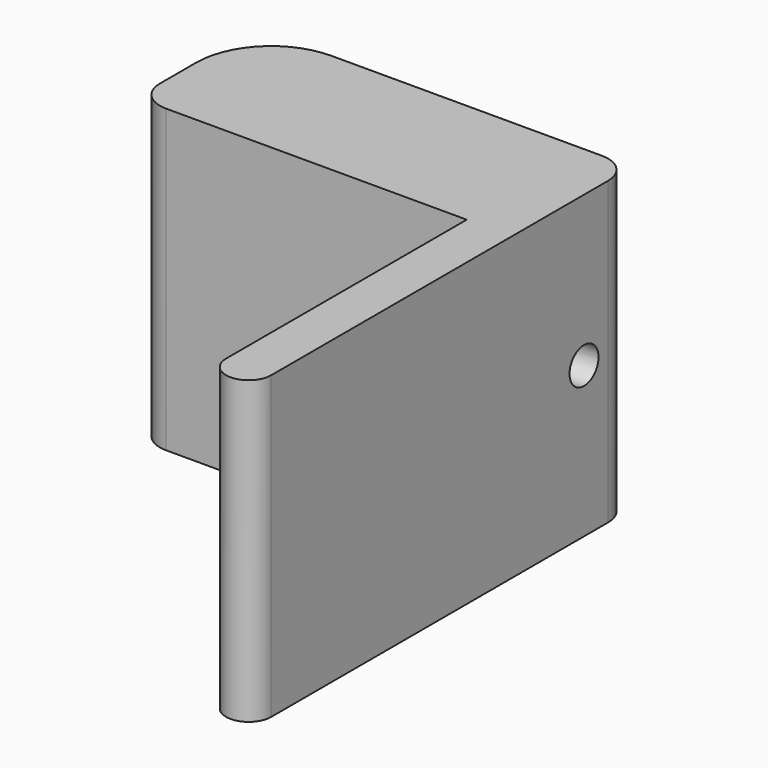
from build123d import *

# Parameters (mm, degrees)
F1_DEPTH = 10
F4_R     = 5
F5_R     = 2


with BuildPart() as f1:
    # F0 (on Top) → F1 (new body, symmetric)
    with BuildSketch(Plane.XY):
        Polygon((-22, 0), (0, 0), (0, -20), (3, -20), (3, 10), (-22, 10), align=None)
        with BuildLine():
            Line((3, -20), (0, -20))
            ThreePointArc((0, -20), (1.5, -21.5), (3, -20))
        make_face()
    extrude(amount=F1_DEPTH, both=True)

    # F2 (on Top) → F3 (revolve, cut)
    with BuildSketch(Plane.XY):
        Polygon((-17.0284808531, 5.4523187828), (-16.9238939618, 4.256885145), (3, 6), (7.9809734905, 6.4357787137), (7.8763865992, 7.6312123514), align=None)
    revolve(axis=Axis((-4.4714602357, 5.3463319294, 0), (0.9961946981, 0.0871557427, 0)), mode=Mode.SUBTRACT)

    # F4
    f4_edges = [f1.edges().sort_by_distance(p)[0] for p in [
        (-22, 10, 0),
    ]]
    fillet(f4_edges, radius=F4_R)

    # F5
    f5_edges = [f1.edges().sort_by_distance(p)[0] for p in [
        (3, 10, 0),
        (-22, 0, 0),
    ]]
    fillet(f5_edges, radius=F5_R)


solid = f1.part
